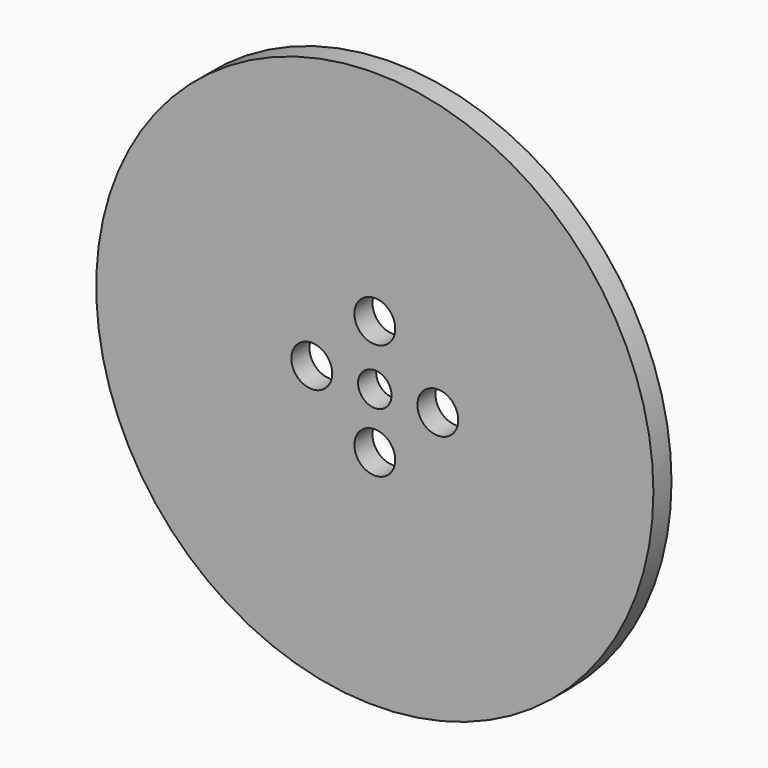
from build123d import *

# Parameters (mm, degrees)
F0_R     = 37.5
F1_DEPTH = 3.048
F2_D     = 4.5
F4_D     = 5.5


with BuildPart() as f1:
    # F0 (on Front) → F1 (new body)
    with BuildSketch(Plane.XZ):
        Circle(F0_R)
    extrude(amount=F1_DEPTH)

    # F2 (through all)
    with Locations(Plane(origin=(0, 0, 0), x_dir=(1, 0, 0), z_dir=(0, 1, 0))):
        with Locations((0, 0)):
            Hole(F2_D / 2)

    # F4 (through all)
    with Locations(Plane(origin=(0, 0, 0), x_dir=(1, 0, 0), z_dir=(0, 1, 0))):
        with Locations((0, -8.0587975681), (-8.4829442203, 0), (0, 7.4932677671), (8.4829442203, 0)):
            Hole(F4_D / 2)


solid = f1.part
